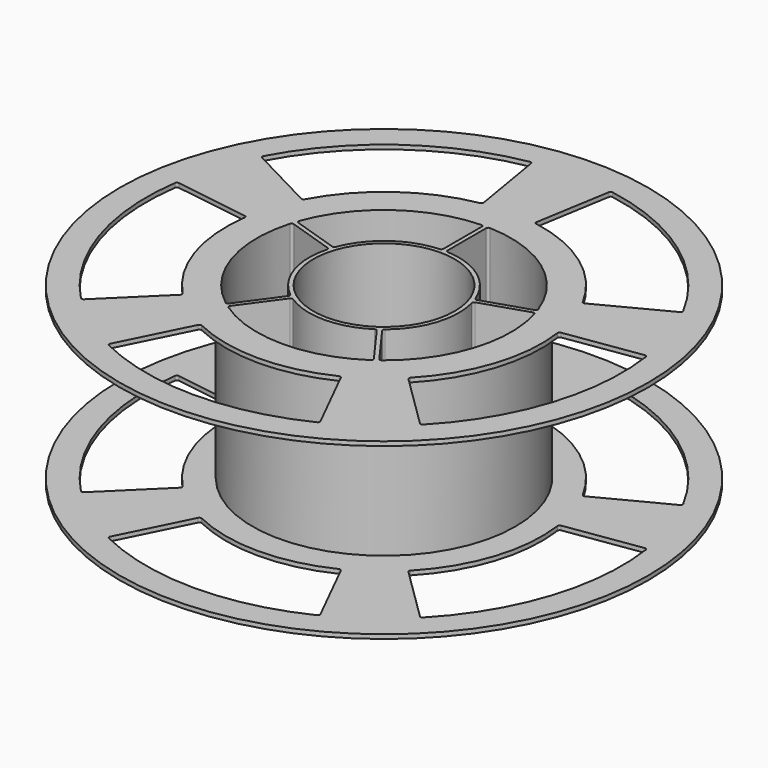
from build123d import *

# Parameters (mm, degrees)
POCKET002_DEPTH    = 646.737672396
POLARPATTERN_COUNT = 5


with BuildPart() as part:
    # Sketch010 → Revolution001 (revolve)
    with BuildSketch(Plane.XZ):
        Polygon((26.75, 32.95), (26.75, -32.95), (100, -32.95), (100, -31.35), (49.75, -31.35), (49.75, 31.35), (100, 31.35), (100, 32.95), align=None)
    revolve(axis=Axis((0, 0, 0), (0, 0, 1)))

    # Sketch012 (on Face8 of Revolution001) → Pocket002 (cut, through all)
    with BuildSketch(Plane(origin=(0, 0, 32.95), x_dir=(-1, 0, 0), z_dir=(0, 0, 1))):
        with BuildLine():
            ThreePointArc((15.3796885804, 23.8157023657), (0, 28.35), (-15.3796885804, 23.8157023657))
            ThreePointArc((-16.4608969153, 24.0175222024), (-15.9604769906, 23.7013334549), (-15.3796885804, 23.8157023657))
            Line((-16.4608969153, 24.0175222024), (-27.1685241193, 38.755306697))
            ThreePointArc((-26.9694002475, 39.888268329), (-27.3092336515, 39.3640164673), (-27.1685241193, 38.755306697))
            ThreePointArc((26.9694002475, 39.888268329), (0, 48.15), (-26.9694002475, 39.888268329))
            ThreePointArc((27.1685241193, 38.755306697), (27.3092336515, 39.3640164673), (26.9694002475, 39.888268329))
            Line((16.4608969153, 24.0175222024), (27.1685241193, 38.755306697))
            ThreePointArc((15.3796885804, 23.8157023657), (15.9604769906, 23.7013334549), (16.4608969153, 24.0175222024))
        make_face()
        with BuildLine():
            ThreePointArc((25.9449786764, 53.823048794), (0, 59.75), (-25.9449786764, 53.823048794))
            ThreePointArc((-27.0083499061, 54.1868206795), (-26.5513009975, 53.7867581012), (-25.9449786764, 53.823048794))
            Line((-27.0083499061, 54.1868206795), (-39.7895658353, 79.8297591794))
            ThreePointArc((-39.4240107242, 80.9057932315), (-39.8310568512, 80.4439657297), (-39.7895658353, 79.8297591794))
            ThreePointArc((39.4240107242, 80.9057932315), (0, 90), (-39.4240107242, 80.9057932315))
            ThreePointArc((39.7895658353, 79.8297591794), (39.8310568512, 80.4439657297), (39.4240107242, 80.9057932315))
            Line((27.0083499061, 54.1868206795), (39.7895658353, 79.8297591794))
            ThreePointArc((25.9449786764, 53.823048794), (26.5513009975, 53.7867581012), (27.0083499061, 54.1868206795))
        make_face()
    pocket002 = extrude(amount=-POCKET002_DEPTH, mode=Mode.SUBTRACT)

    # PolarPattern: Pocket002 ×5 about axis
    polarpattern_axis = Axis((0, 0, 32.95), (0, 0, 1))
    for i in range(1, POLARPATTERN_COUNT):
        add(pocket002.rotate(polarpattern_axis, i * 360 / POLARPATTERN_COUNT), mode=Mode.SUBTRACT)


solid = part.part
